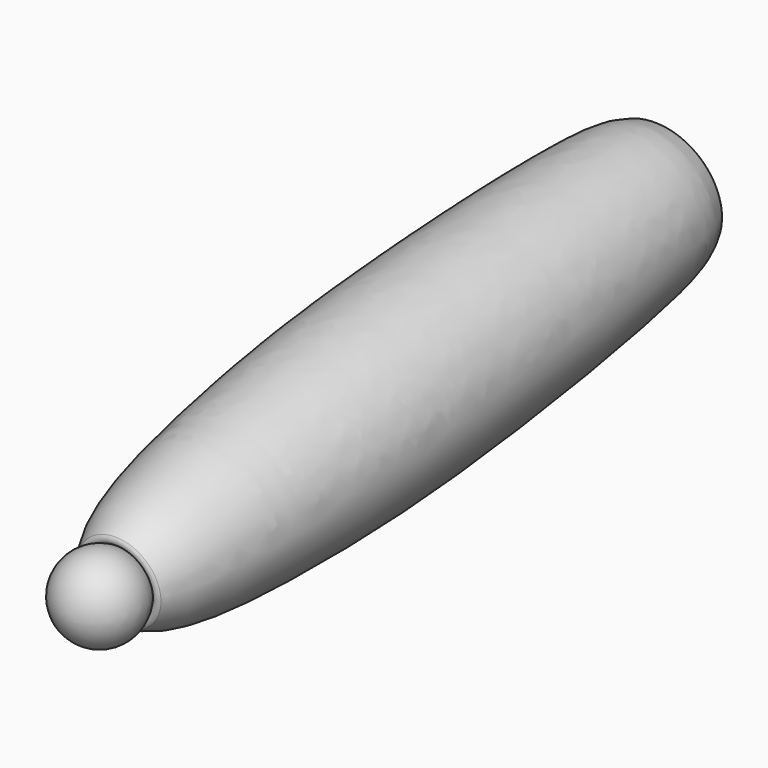
from build123d import *

# Parameters (mm, degrees)
FILLET071_R             = 3
FILLET072_R             = 3
BODY044_PLACEMENT_ANGLE = 6


with BuildPart() as part:
    # Sketch148 → Revolution077 (revolve)
    with BuildSketch(Plane.XY):
        with BuildLine():
            Line((0, 0), (0, -428.766235))
            add(Edge.make_bspline(
                [(0, 0), (37.127547, 3.058324), (47.193909, -33.616211), (53.813536, -199.691265), (50.270172, -320.959738), (33.178696, -440.435144), (0, -428.766235)],
                knots=[0, 0, 0, 0, 0.25, 0.5, 0.75, 1, 1, 1, 1], degree=3))
        make_face()
    revolve(axis=Axis((0, 0, 0), (0, 1, 0)))

    # Sketch149 → Groove070 (revolve, cut)
    with BuildSketch(Plane.XY):
        with BuildLine():
            Line((0, 35), (0, -35))
            ThreePointArc((0, -35), (35, 0), (0, 35))
        make_face()
    revolve(axis=Axis((0, 0, 0), (0, 1, 0)), mode=Mode.SUBTRACT)

    # Fillet071
    fillet071_edges = [part.edges().sort_by_distance(p)[0] for p in [
        (-33.812554, -9.039423, 0),
    ]]
    fillet(fillet071_edges, radius=FILLET071_R)

    # Sketch150 → Groove071 (revolve, cut)
    with BuildSketch(Plane.XY):
        with BuildLine():
            Line((0, -410), (0, -460))
            ThreePointArc((0, -460), (25, -435), (0, -410))
        make_face()
    revolve(axis=Axis((0, 0, 0), (0, 1, 0)), mode=Mode.SUBTRACT)

    # Fillet072
    fillet072_edges = [part.edges().sort_by_distance(p)[0] for p in [
        (-22.332538, -423.763553, 0),
    ]]
    fillet(fillet072_edges, radius=FILLET072_R)

    # Sketch150 → Revolution078 (revolve)
    with BuildSketch(Plane.XY):
        with BuildLine():
            Line((0, -410), (0, -460))
            ThreePointArc((0, -460), (25, -435), (0, -410))
        make_face()
    revolve(axis=Axis((0, 0, 0), (0, 1, 0)))


with BuildPart() as part_1:
    # Body044 placement: moved
    add(part.part.moved(Location((75, 496.57061, -20.703249))).rotate(Axis((75, 496.57061, -20.703249), (1, 0, 0)), BODY044_PLACEMENT_ANGLE))


solid = part_1.part
